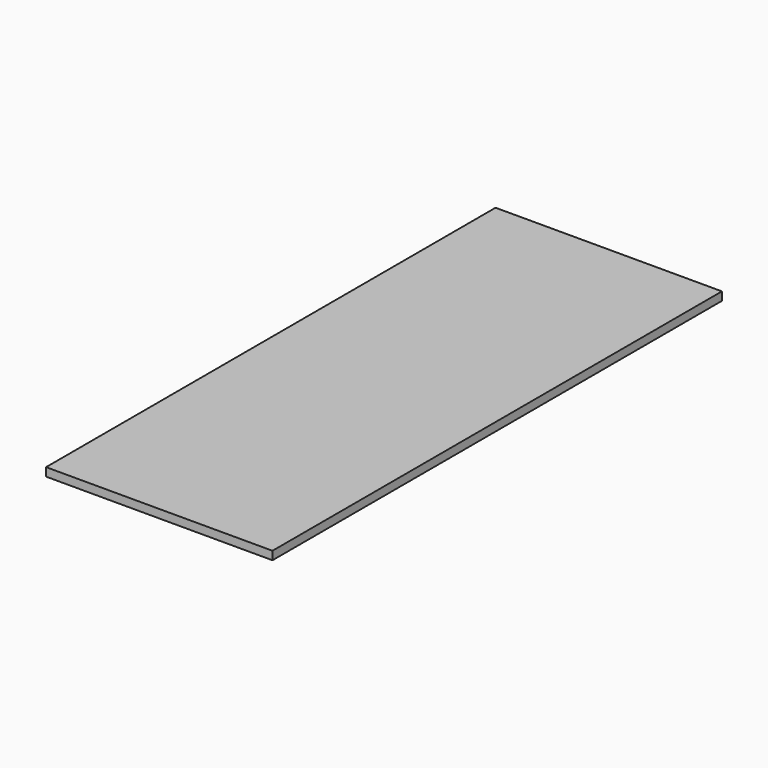
from build123d import *

# Parameters (mm, degrees)
F0_W     = 85.725
F0_H     = 212.725
F1_DEPTH = 3.175
F2_W     = 85.725
F2_H     = 212.725
F2_W_2   = 73.025
F2_H_2   = 200.025
F3_DEPTH = 3.175


with BuildPart() as f1:
    # F0 (on Top) → F1 (new body, symmetric)
    with BuildSketch(Plane.XY):
        Rectangle(F0_W, F0_H)
    extrude(amount=F1_DEPTH, both=True)

    # F2 (on face) → F3 (cut)
    with BuildSketch(Plane(origin=(0, 0, -3.175), x_dir=(1, 0, 0), z_dir=(0, 0, -1))):
        Rectangle(F2_W, F2_H)
        Rectangle(F2_W_2, F2_H_2, mode=Mode.SUBTRACT)
    extrude(amount=-F3_DEPTH, mode=Mode.SUBTRACT)


solid = f1.part
